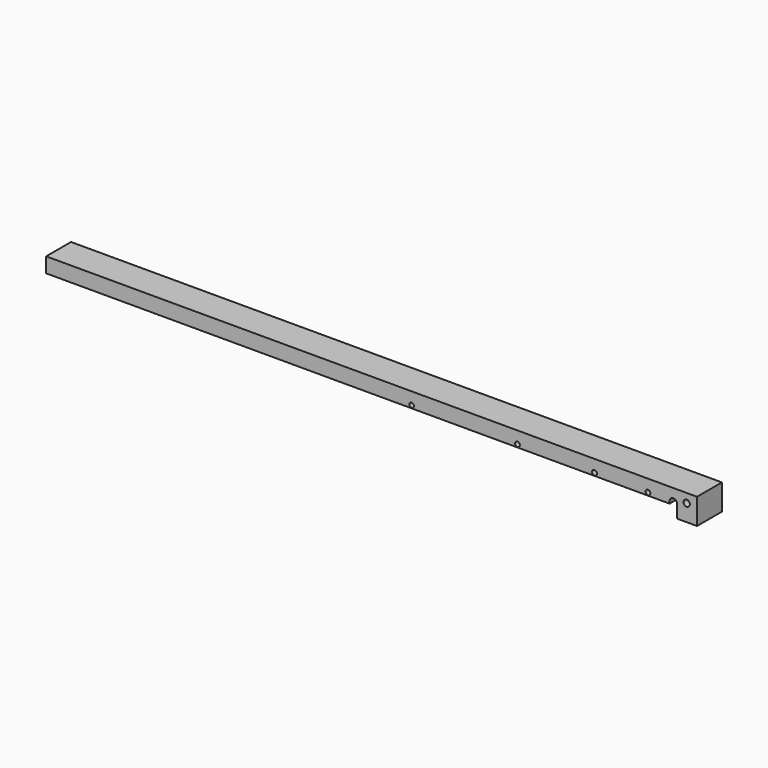
from build123d import *

# Parameters (mm, degrees)
F0_R     = 0.358167
F0_R_2   = 0.382671
F0_R_3   = 0.396649
F0_R_4   = 0.384251
F0_R_5   = 0.505629
F1_DEPTH = 5


with BuildPart() as f1:
    # F0 (on Front) → F1 (new body)
    with BuildSketch(Plane.XZ):
        with BuildLine():
            Line((-48.209511, 2.410193), (-48.221689, 0))
            Line((-48.221689, 0), (52.006382, 0))
            Line((52.006382, 0), (52.006382, 0.35949))
            ThreePointArc((52.006382, 0.35949), (52.603963, 0.957071), (53.201544, 0.35949))
            Line((53.201544, 0.35949), (53.201544, -1.734003))
            Line((53.201544, -1.734003), (56.421683, -1.734003))
            Line((56.421683, -1.734003), (56.421683, 2.410193))
            Line((56.421683, 2.410193), (-48.209511, 2.410193))
        make_face()
        with Locations((10.546022, 0.450486)):
            Circle(F0_R, mode=Mode.SUBTRACT)
        with Locations((27.557494, 0.450486)):
            Circle(F0_R_2, mode=Mode.SUBTRACT)
        with Locations((39.942123, 0.450486)):
            Circle(F0_R_3, mode=Mode.SUBTRACT)
        with Locations((48.534829, 0.450486)):
            Circle(F0_R_4, mode=Mode.SUBTRACT)
        with Locations((54.757532, 0.956697)):
            Circle(F0_R_5, mode=Mode.SUBTRACT)
    extrude(amount=F1_DEPTH)


solid = f1.part
